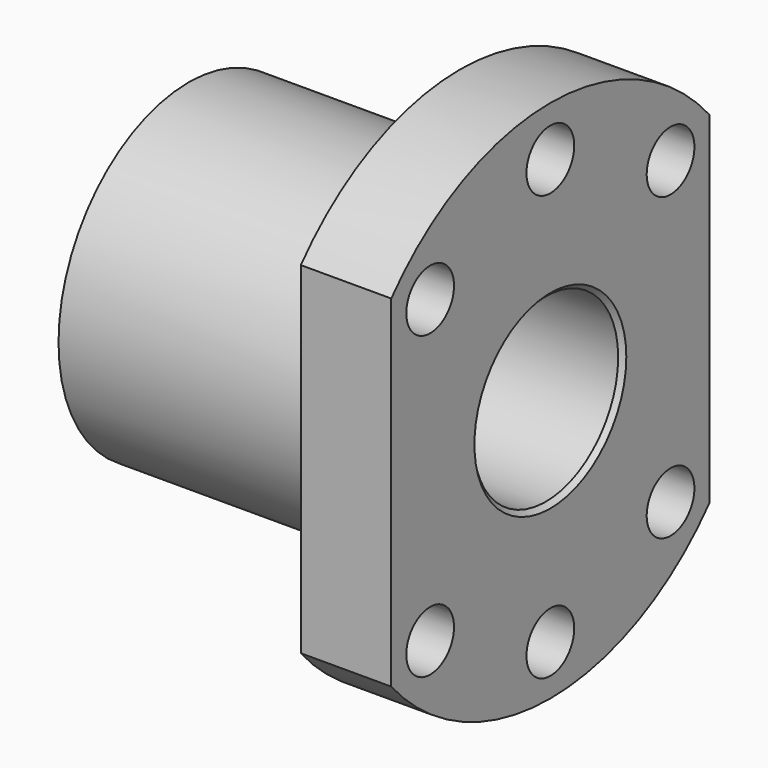
from build123d import *

# Parameters (mm, degrees)
F0_R     = 18
F1_DEPTH = 30
F3_DEPTH = 10
F4_R     = 10
F5_DEPTH = 40.001
F6_SIZE  = 0.5
F8_D     = 6.6


with BuildPart() as f1:
    # F0 (on Right) → F1 (new body)
    with BuildSketch(Plane.YZ):
        Circle(F0_R)
    extrude(amount=-F1_DEPTH)

    # F2 (on face) → F3 (join)
    with BuildSketch(Plane.YZ):
        with BuildLine():
            Line((-22, 18.8944436277), (-22, -18.8944436277))
            ThreePointArc((-22, -18.8944436277), (0, -29), (22, -18.8944436277))
            Line((22, -18.8944436277), (22, 18.8944436277))
            ThreePointArc((22, 18.8944436277), (0, 29), (-22, 18.8944436277))
        make_face()
    extrude(amount=F3_DEPTH)

    # F4 (on face) → F5 (cut, through all)
    with BuildSketch(Plane.YZ.offset(10)):
        Circle(F4_R)
    extrude(amount=-F5_DEPTH, mode=Mode.SUBTRACT)

    # F6
    f6_edges = [f1.edges().sort_by_distance(p)[0] for p in [
        (10, -10, 0),
        (-30, -10, 0),
    ]]
    chamfer(f6_edges, length=F6_SIZE)

    # F8 (through all)
    with Locations(Plane.YZ.offset(10)):
        with Locations((0, 23.5), (16.617, 16.617), (16.617, -16.617), (0, -23.5), (-16.617, -16.617), (-16.617, 16.617)):
            Hole(F8_D / 2)


solid = f1.part
